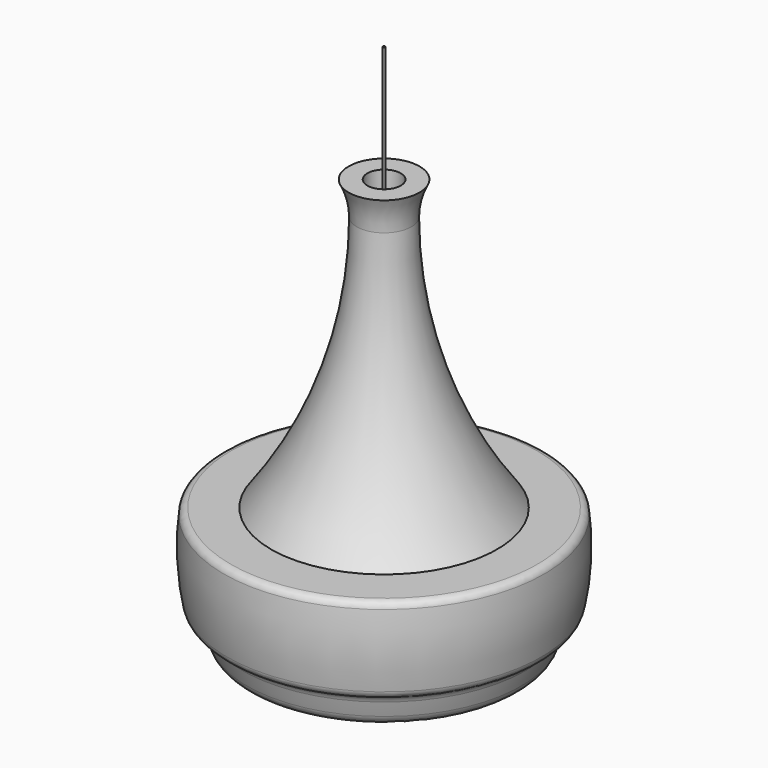
from build123d import *

# Parameters (mm, degrees)
F3_R     = 3
F4_DEPTH = 400
F5_R     = 20


with BuildPart() as f1:
    # F0 (on Front) → F1 (revolve)
    with BuildSketch(Plane.XZ):
        with BuildLine():
            ThreePointArc((-77.099983, 927.714752), (-139.141074, 546.861077), (-318.849186, 205.388365))
            Line((-318.849186, 205.388365), (-450, 205.388365))
            ThreePointArc((-450, 205.388365), (-456.776006, 91.818722), (-443.644301, -21.1925))
            ThreePointArc((-443.644301, -21.1925), (-436.318656, -35.865352), (-422.675335, -44.965761))
            ThreePointArc((-422.675335, -44.965761), (-408.11706, -54.368639), (-399.696055, -69.516053))
            ThreePointArc((-399.696055, -69.516053), (-393.610218, -90.800785), (-386.843485, -111.878939))
            ThreePointArc((-386.843485, -111.878939), (-374.869538, -130.062199), (-355.530101, -140.061824))
            ThreePointArc((-355.530101, -140.061824), (-292.993125, -152.858722), (-230, -163.178615))
            Line((-230, -163.178615), (-230, -107.23339))
            Line((-230, -107.23339), (-354.622405, -107.23339))
            Line((-354.622405, -107.23339), (-354.622405, -54.492112))
            Line((-354.622405, -54.492112), (-366.887819, -54.492112))
            Line((-366.887819, -54.492112), (-366.887819, -4.497559))
            Line((-366.887819, -4.497559), (-400.620095, -4.497559))
            Line((-400.620095, -4.497559), (-400.620095, 156.199861))
            Line((-400.620095, 156.199861), (-318.337287, 156.199861))
            Line((-318.337287, 156.199861), (-318.337287, 173.019633))
            Line((-318.337287, 173.019633), (-257.533501, 173.019633))
            Line((-257.533501, 173.019633), (-257.533501, 217.490375))
            Line((-257.533501, 217.490375), (-20, 217.490375))
            Line((-20, 217.490375), (-20, 235.490375))
            Line((-20, 235.490375), (-223.595704, 235.490375))
            Line((-223.595704, 235.490375), (-223.595704, 265.70394))
            Line((-223.595704, 265.70394), (-196.445476, 265.70394))
            Line((-196.445476, 265.70394), (-196.445476, 323.398136))
            Line((-196.445476, 323.398136), (-164.770226, 323.398136))
            Line((-164.770226, 323.398136), (-164.770226, 374.304824))
            Line((-164.770226, 374.304824), (-143.2763, 374.304824))
            Line((-143.2763, 374.304824), (-143.2763, 421.817683))
            Line((-143.2763, 421.817683), (-117.25733, 421.817683))
            Line((-117.25733, 421.817683), (-117.25733, 489.693248))
            Line((-117.25733, 489.693248), (-85.582096, 489.693248))
            Line((-85.582096, 489.693248), (-85.582096, 580.19396))
            Line((-85.582096, 580.19396), (-62.956903, 580.19396))
            Line((-62.956903, 580.19396), (-62.956903, 705.763721))
            Line((-62.956903, 705.763721), (-47.119274, 705.763721))
            Line((-47.119274, 705.763721), (-47.119274, 1020.388365))
            Line((-47.119274, 1020.388365), (-100, 1020.388365))
            ThreePointArc((-100, 1020.388365), (-82.90981, 975.44527), (-77.099983, 927.714752))
        make_face()
    revolve(axis=Axis((0, 0, 1.310052), (0, 0, -1)))

    # F5
    f5_edges = [f1.edges().sort_by_distance(p)[0] for p in [
        (450, 0, 205.388365),
    ]]
    fillet(f5_edges, radius=F5_R)


with BuildPart() as f4:
    # F3 (on offset) → F4 (new body)
    with BuildSketch(Plane.XY.offset(950)):
        Circle(F3_R)
    extrude(amount=F4_DEPTH)


solid = Compound([f1.part, f4.part])
